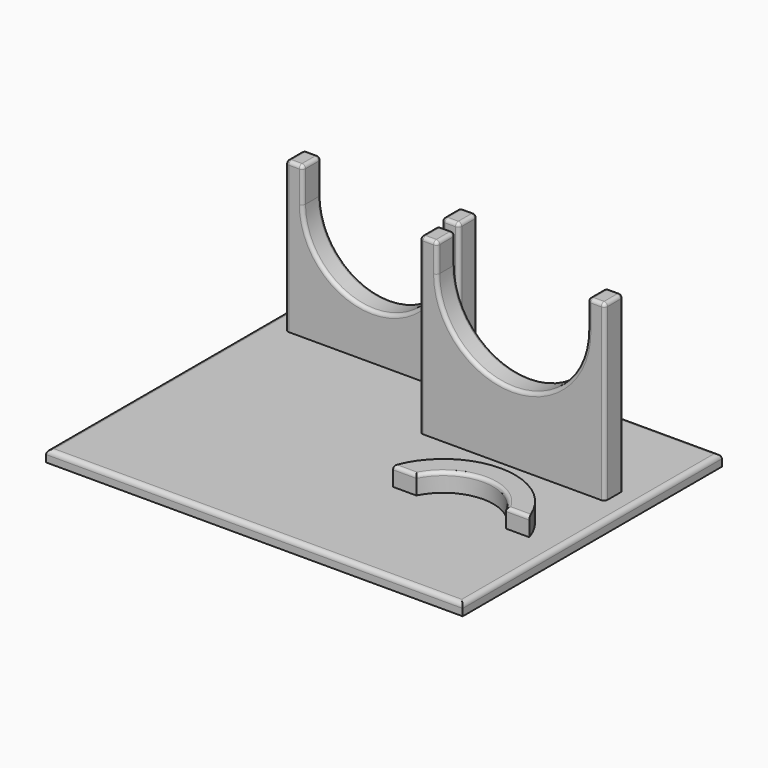
from build123d import *

# Parameters (mm, degrees)
F5_W      = 180
F5_H      = 140
F0_DEPTH  = 5
F1_R      = 2
F7_DEPTH  = 8
F8_W      = 75
F8_H      = 10
F8_W_2    = 80
F9_DEPTH  = 75
F10_DEPTH = 75
F11_DEPTH = 25
F4_DEPTH  = 25
F12_R     = 1.5


with BuildPart() as f0:
    # F5 (on Top) → F0 (new body)
    with BuildSketch(Plane.XY):
        with Locations((5.4015538096, 34.1141599765)):
            Rectangle(F5_W, F5_H)
    extrude(amount=F0_DEPTH)

    # F1
    f1_edges = [f0.edges().sort_by_distance(p)[0] for p in [
        (5.401554, -35.88584, 5),
        (95.401554, 34.11416, 5),
        (-84.598446, 34.11416, 5),
        (5.401554, 104.11416, 5),
    ]]
    fillet(f1_edges, radius=F1_R)

    # F6 (on face) → F7 (join)
    with BuildSketch(Plane.XY.offset(5)):
        with BuildLine():
            ThreePointArc((82.8569015917, 15.7776214182), (53.4015538096, 37.1141599765), (23.9462060275, 15.7776214182))
            Line((23.9462060275, 15.7776214182), (34.0379001592, 15.7776214182))
            ThreePointArc((34.0379001592, 15.7776214182), (53.4015538096, 27.7551758891), (72.7652074601, 15.7776214182))
            Line((72.7652074601, 15.7776214182), (82.8569015917, 15.7776214182))
        make_face()
    extrude(amount=F7_DEPTH)

    # F8 (on face) → F9 (join)
    with BuildSketch(Plane.XY.offset(5)):
        with Locations((-38.0984461904, 87.1141599765)):
            Rectangle(F8_W, F8_H)
        with Locations((46.4015538096, 57.1141599765)):
            Rectangle(F8_W_2, F8_H)
    extrude(amount=F9_DEPTH)

    # F8 (on face) → F10 (join)
    with BuildSketch(Plane.XY.offset(5)):
        with Locations((-38.0984461904, 87.1141599765)):
            Rectangle(F8_W, F8_H)
        with Locations((46.4015538096, 57.1141599765)):
            Rectangle(F8_W_2, F8_H)
    extrude(amount=F10_DEPTH)

    # F2 (on face) → F11 (cut)
    with BuildSketch(Plane.XZ.offset(-52.1141599765)):
        with BuildLine():
            Line((13.9015538096, 80), (13.9015538096, 67.5))
            ThreePointArc((13.9015538096, 67.5), (46.4015538096, 35), (78.9015538096, 67.5))
            Line((78.9015538096, 67.5), (78.9015538096, 80))
            Line((78.9015538096, 80), (13.9015538096, 80))
        make_face()
    extrude(amount=-F11_DEPTH, mode=Mode.SUBTRACT)

    # F3 (on face) → F4 (cut)
    with BuildSketch(Plane.XZ.offset(-82.1141599765)):
        with BuildLine():
            Line((-68.0984461904, 70), (-68.0984461904, 55))
            ThreePointArc((-68.0984461904, 55), (-38.0984461904, 25), (-8.0984461904, 55))
            Line((-8.0984461904, 55), (-8.0984461904, 70))
            Line((-8.0984461904, 70), (-0.5984461904, 70))
            Line((-0.5984461904, 70), (-0.5984461904, 80))
            Line((-0.5984461904, 80), (-75.5984461904, 80))
            Line((-75.5984461904, 80), (-75.5984461904, 70))
            Line((-75.5984461904, 70), (-68.0984461904, 70))
        make_face()
    extrude(amount=-F4_DEPTH, mode=Mode.SUBTRACT)

    # F12
    f12_edges = [f0.edges().sort_by_distance(p)[0] for p in [
        (86.401554, 52.11416, 42.5),
        (86.401554, 62.11416, 42.5),
        (78.901554, 57.11416, 80),
        (13.901554, 57.11416, 80),
        (-8.098446, 87.11416, 70),
        (-68.098446, 87.11416, 70),
        (6.401554, 52.11416, 42.5),
        (6.401554, 62.11416, 42.5),
        (-75.598446, 82.11416, 37.5),
        (-75.598446, 92.11416, 37.5),
        (-0.598446, 82.11416, 37.5),
        (-0.598446, 92.11416, 37.5),
        (86.401554, 57.11416, 80),
        (6.401554, 57.11416, 80),
        (-0.598446, 87.11416, 70),
        (-75.598446, 87.11416, 70),
        (10.151554, 52.11416, 80),
        (-4.348446, 82.11416, 70),
        (-71.848446, 92.11416, 70),
        (-4.348446, 92.11416, 70),
        (-71.848446, 82.11416, 70),
        (10.151554, 62.11416, 80),
        (82.651554, 52.11416, 80),
        (46.401554, 52.11416, 35),
        (-38.098446, 82.11416, 25),
        (82.651554, 62.11416, 80),
        (46.401554, 62.11416, 35),
        (-38.098446, 92.11416, 25),
        (53.401554, 27.755176, 13),
        (28.992053, 15.777621, 13),
        (77.811055, 15.777621, 13),
    ]]
    fillet(f12_edges, radius=F12_R)


solid = f0.part
